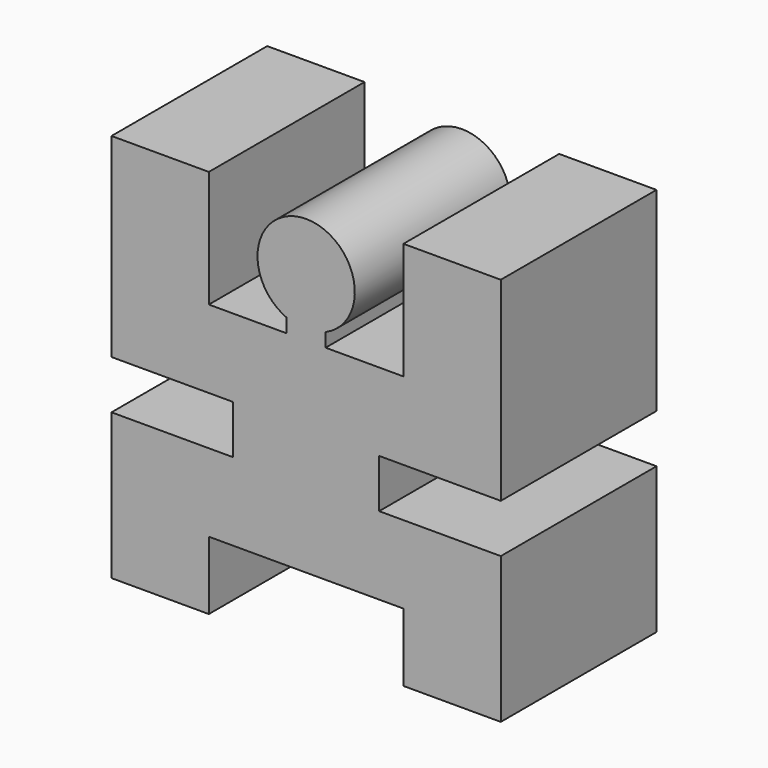
from build123d import *

# Parameters (mm, degrees)
F1_DEPTH = 20


with BuildPart() as f1:
    # F0 (on Front) → F1 (new body)
    with BuildSketch(Plane.XZ):
        with BuildLine():
            ThreePointArc((2, 9.417424), (0, 19), (-2, 9.417424))
            Line((-2, 9.417424), (-2, 8))
            Line((-2, 8), (-10, 8))
            Line((-10, 8), (-10, 20))
            Line((-10, 20), (-20, 20))
            Line((-20, 20), (-20, 0))
            Line((-20, 0), (-7.5, 0))
            Line((-7.5, 0), (-7.5, -5))
            Line((-7.5, -5), (-20, -5))
            Line((-20, -5), (-20, -20))
            Line((-20, -20), (-10, -20))
            Line((-10, -20), (-10, -13))
            Line((-10, -13), (10, -13))
            Line((10, -13), (10, -20))
            Line((10, -20), (20, -20))
            Line((20, -20), (20, -5))
            Line((20, -5), (7.5, -5))
            Line((7.5, -5), (7.5, 0))
            Line((7.5, 0), (20, 0))
            Line((20, 0), (20, 20))
            Line((20, 20), (10, 20))
            Line((10, 20), (10, 8))
            Line((10, 8), (2, 8))
            Line((2, 8), (2, 9.417424))
        make_face()
    extrude(amount=F1_DEPTH)


solid = f1.part
